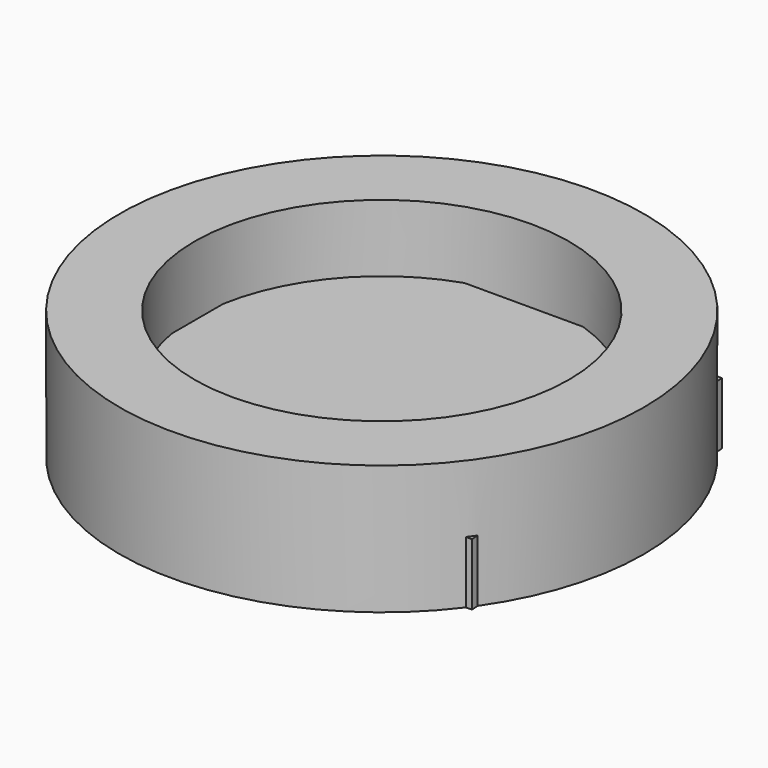
from build123d import *

# Parameters (mm, degrees)
F1_DEPTH = 12
F2_R     = 50.708657
F2_R_2   = 36.219288
F3_DEPTH = 25


with BuildPart() as f1:
    # F0 (on Top) → F1 (new body)
    with BuildSketch(Plane.XY):
        Polygon((34.48616, 22.330118), (-39.507132, 22.330118), (-39.507132, -43.471057), (37.921563, -42.414013), align=None)
    extrude(amount=F1_DEPTH)

    # F2 (on Top) → F3 (join)
    with BuildSketch(Plane.XY):
        with Locations((-3.831795, -12.02391)):
            Circle(F2_R)
        with Locations((-3.831795, -12.02391)):
            Circle(F2_R_2, mode=Mode.SUBTRACT)
    extrude(amount=F3_DEPTH)


solid = f1.part
